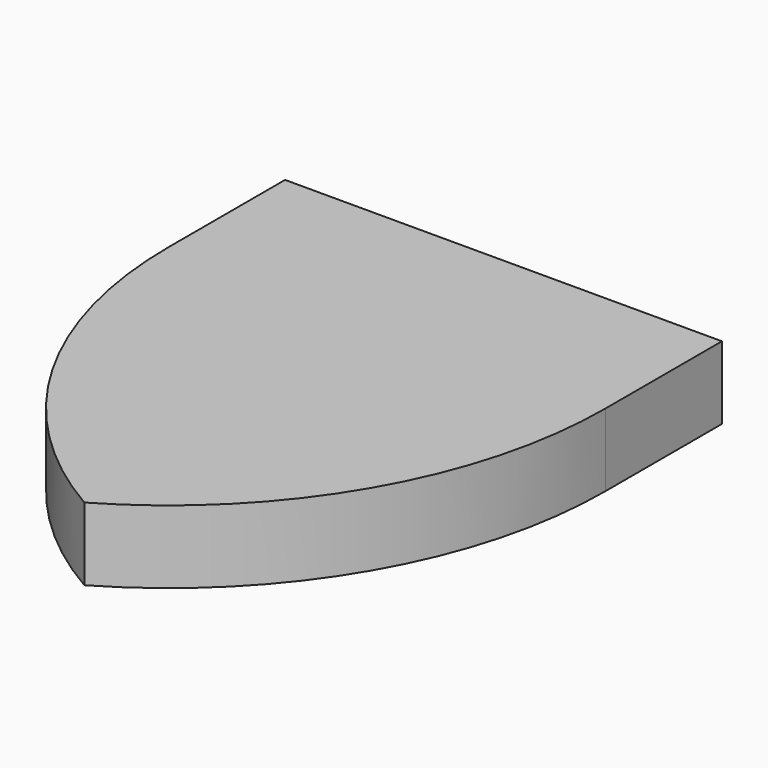
from build123d import *

# Parameters (mm, degrees)
F1_DEPTH = 5


with BuildPart() as f1:
    # F0 (on Top) → F1 (new body)
    with BuildSketch(Plane.XY):
        with BuildLine():
            Line((15, 15), (0, 15))
            Line((0, 15), (-15, 15))
            Line((-15, 15), (-15, 5))
            ThreePointArc((-15, 5), (-10.980762, -10), (0, -20.980762))
            ThreePointArc((0, -20.980762), (10.980762, -10), (15, 5))
            Line((15, 5), (15, 15))
        make_face()
    extrude(amount=F1_DEPTH)


solid = f1.part
